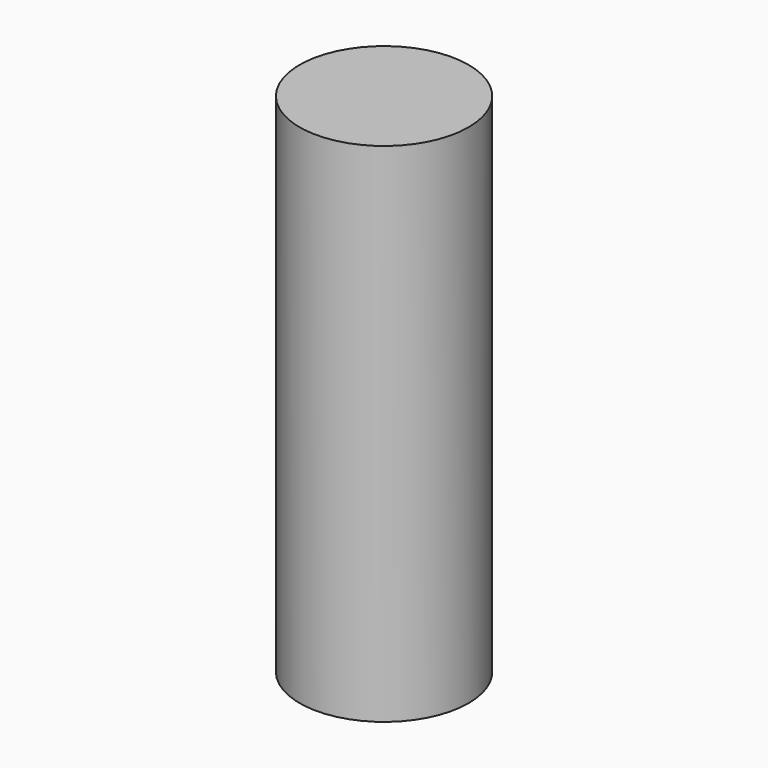
from build123d import *

# Parameters (mm, degrees)
SKETCH_R  = 6.35
PAD_DEPTH = 38.1


with BuildPart() as part:
    # Sketch → Pad (new body)
    with BuildSketch(Plane.XY):
        Circle(SKETCH_R)
    extrude(amount=PAD_DEPTH)


solid = part.part
